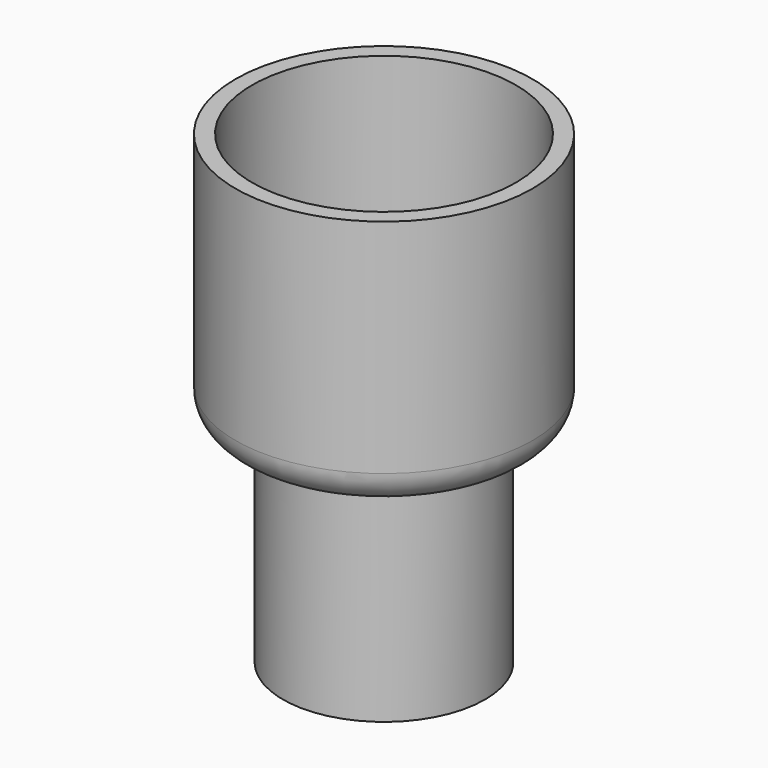
from build123d import *

# Parameters (mm, degrees)
F2_R = 4


with BuildPart() as f1:
    # F0 (on Front) → F1 (revolve)
    with BuildSketch(Plane.XZ):
        Polygon((10.6555, 25.9), (10.6555, 0), (12.2555, 0), (12.2555, 25.5), (18, 25.5), (18, 56.384568), (16, 56.384568), (16, 30.384568), align=None)
    revolve(axis=Axis((0, 0, 28.192284), (0, 0, 1)))

    # F2
    f2_edges = [f1.edges().sort_by_distance(p)[0] for p in [
        (-18, 0, 25.5),
    ]]
    fillet(f2_edges, radius=F2_R)


solid = f1.part
